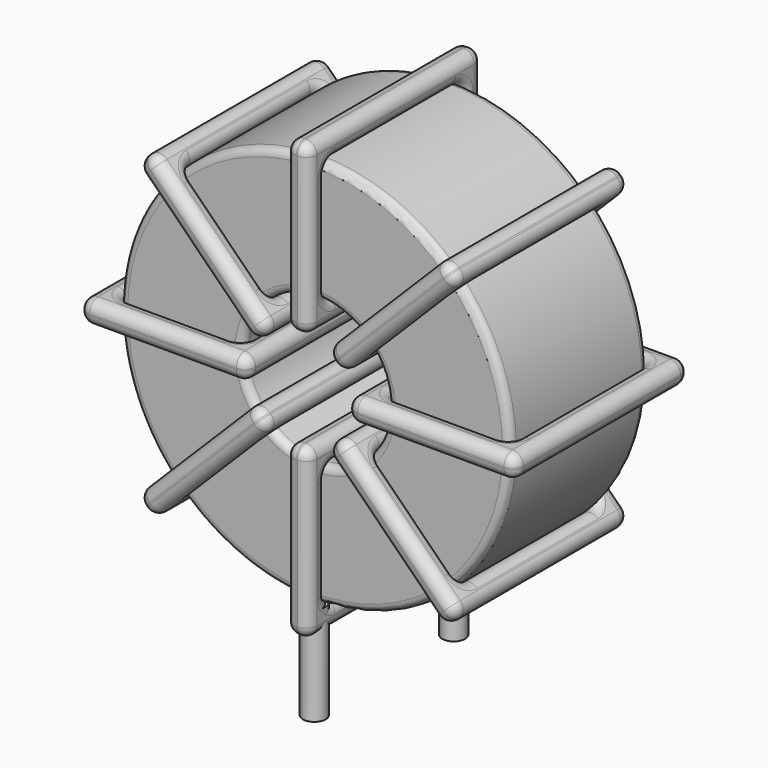
from build123d import *

# Parameters (mm, degrees)
SKETCH001_R       = 0.75
PAD001_DEPTH      = 1.5
PAD001_DEPTH_BACK = 5
SKETCH_R          = 12.8
SKETCH_R_2        = 4.766667
PAD_DEPTH         = 5.65
FILLET_R          = 0.5
SKETCH003_W       = 11.033333
SKETCH003_H       = 14.3
SKETCH003_W_2     = 8.033333
SKETCH003_H_2     = 11.3
PAD002_DEPTH      = 0.75
FILLET001_R       = 0.705
SKETCH004_W       = 11.033333
SKETCH004_H       = 14.3
SKETCH004_W_2     = 8.033333
SKETCH004_H_2     = 11.3
PAD003_DEPTH      = 0.75
FILLET002_R       = 0.705
SKETCH005_W       = 11.033333
SKETCH005_H       = 14.3
SKETCH005_W_2     = 8.033333
SKETCH005_H_2     = 11.3
PAD004_DEPTH      = 0.75
FILLET003_R       = 0.705
SKETCH006_W       = 11.033333
SKETCH006_H       = 14.3
SKETCH006_W_2     = 8.033333
SKETCH006_H_2     = 11.3
PAD005_DEPTH      = 0.75
FILLET004_R       = 0.705


with BuildPart() as pad001:
    # Sketch001 → Pad001 (new body, two sides)
    with BuildSketch(Plane.XY.offset(2)) as pad001_sk:
        Circle(SKETCH001_R)
        with Locations((0, -11.43)):
            Circle(SKETCH001_R)
    extrude(amount=PAD001_DEPTH)
    extrude(pad001_sk.sketch, amount=-PAD001_DEPTH_BACK)


with BuildPart() as fillet_body:
    # Sketch → Pad (new body, symmetric)
    with BuildSketch(Plane.XZ.offset(5.715)):
        with Locations((0, 16.3)):
            Circle(SKETCH_R)
        with Locations((0, 16.3)):
            Circle(SKETCH_R_2, mode=Mode.SUBTRACT)
    extrude(amount=PAD_DEPTH, both=True)

    # Fillet
    fillet_edges = [fillet_body.edges().sort_by_distance(p)[0] for p in [
        (-4.766667, -11.365, 16.3),
        (-12.8, -11.365, 16.3),
        (-12.8, -0.065, 16.3),
    ]]
    fillet(fillet_edges, radius=FILLET_R)


with BuildPart() as fillet001:
    # Sketch003 → Pad002 (new body, symmetric)
    with BuildSketch(Plane(origin=(0, 1.435, 16.3), x_dir=(1, 0, 0), z_dir=(0, 0, -1))):
        with Locations((-8.783333, 7.15)):
            Rectangle(SKETCH003_W, SKETCH003_H)
        with Locations((-8.783333, 7.15)):
            Rectangle(SKETCH003_W_2, SKETCH003_H_2, mode=Mode.SUBTRACT)
        with Locations((8.783333, 7.15)):
            Rectangle(SKETCH003_W, SKETCH003_H)
        with Locations((8.783333, 7.15)):
            Rectangle(SKETCH003_W_2, SKETCH003_H_2, mode=Mode.SUBTRACT)
    extrude(amount=PAD002_DEPTH, both=True)

    # Fillet001
    fillet001_edges = [fillet001.edges().sort_by_distance(p)[0] for p in [
        (-4.766667, -11.365, 16.3),
        (-4.766667, -0.065, 16.3),
        (-4.766667, -5.715, 17.05),
        (-4.766667, -5.715, 15.55),
        (-14.3, -12.865, 16.3),
        (-3.266667, -12.865, 16.3),
        (-8.783333, -12.865, 17.05),
        (-8.783333, -12.865, 15.55),
        (-3.266667, 1.435, 16.3),
        (-3.266667, -5.715, 17.05),
        (-3.266667, -5.715, 15.55),
        (4.766667, -11.365, 16.3),
        (12.8, -11.365, 16.3),
        (8.783333, -11.365, 17.05),
        (8.783333, -11.365, 15.55),
        (12.8, -0.065, 16.3),
        (12.8, -5.715, 17.05),
        (12.8, -5.715, 15.55),
        (3.266667, -12.865, 16.3),
        (14.3, -12.865, 16.3),
        (8.783333, -12.865, 17.05),
        (8.783333, -12.865, 15.55),
        (14.3, 1.435, 16.3),
        (14.3, -5.715, 17.05),
        (14.3, -5.715, 15.55),
        (-12.8, -11.365, 16.3),
        (-8.783333, -11.365, 17.05),
        (-8.783333, -11.365, 15.55),
        (4.766667, -0.065, 16.3),
        (4.766667, -5.715, 17.05),
        (4.766667, -5.715, 15.55),
        (8.783333, -0.065, 17.05),
        (8.783333, -0.065, 15.55),
        (3.266667, 1.435, 16.3),
        (8.783333, 1.435, 17.05),
        (8.783333, 1.435, 15.55),
        (3.266667, -5.715, 17.05),
        (3.266667, -5.715, 15.55),
        (-14.3, 1.435, 16.3),
        (-8.783333, 1.435, 17.05),
        (-8.783333, 1.435, 15.55),
        (-14.3, -5.715, 17.05),
        (-14.3, -5.715, 15.55),
        (-12.8, -0.065, 16.3),
        (-12.8, -5.715, 17.05),
        (-12.8, -5.715, 15.55),
        (-8.783333, -0.065, 17.05),
        (-8.783333, -0.065, 15.55),
    ]]
    fillet(fillet001_edges, radius=FILLET001_R)


with BuildPart() as fillet002:
    # Sketch004 → Pad003 (new body, symmetric)
    with BuildSketch(Plane(origin=(0, 1.435, 16.3), x_dir=(0.707108, 0, 0.707106), z_dir=(0.707106, 0, -0.707108))):
        with Locations((-8.783333, 7.15)):
            Rectangle(SKETCH004_W, SKETCH004_H)
        with Locations((-8.783333, 7.15)):
            Rectangle(SKETCH004_W_2, SKETCH004_H_2, mode=Mode.SUBTRACT)
        with Locations((8.783333, 7.15)):
            Rectangle(SKETCH004_W, SKETCH004_H)
        with Locations((8.783333, 7.15)):
            Rectangle(SKETCH004_W_2, SKETCH004_H_2, mode=Mode.SUBTRACT)
    extrude(amount=PAD003_DEPTH, both=True)

    # Fillet002
    fillet002_edges = [fillet002.edges().sort_by_distance(p)[0] for p in [
        (-9.050977, -11.365, 7.249044),
        (-3.370546, -0.065, 12.929462),
        (-6.741091, -0.065, 10.619583),
        (-5.680432, -0.065, 9.558922),
        (-10.111639, -12.865, 6.188385),
        (-2.309885, -12.865, 13.990121),
        (-6.741091, -12.865, 10.619583),
        (-5.680432, -12.865, 9.558922),
        (-2.309885, 1.435, 13.990121),
        (-2.840214, -5.715, 14.520451),
        (-1.779555, -5.715, 13.45979),
        (3.370546, -11.365, 19.670538),
        (9.050977, -11.365, 25.350956),
        (5.680432, -11.365, 23.041078),
        (6.741091, -11.365, 21.980417),
        (9.050977, -0.065, 25.350956),
        (8.520648, -5.715, 25.881287),
        (9.581307, -5.715, 24.820626),
        (2.309885, 1.435, 18.609879),
        (2.309885, -12.865, 18.609879),
        (1.779555, -5.715, 19.14021),
        (2.840214, -5.715, 18.079549),
        (10.111639, 1.435, 26.411615),
        (5.680432, 1.435, 23.041078),
        (6.741091, 1.435, 21.980417),
        (-9.050977, -0.065, 7.249044),
        (-9.581307, -5.715, 7.779374),
        (-8.520648, -5.715, 6.718713),
        (3.370546, -0.065, 19.670538),
        (2.840217, -5.715, 20.200869),
        (3.900876, -5.715, 19.140208),
        (5.680432, -0.065, 23.041078),
        (6.741091, -0.065, 21.980417),
        (10.111639, -12.865, 26.411615),
        (9.581309, -5.715, 26.941946),
        (10.641968, -5.715, 25.881285),
        (5.680432, -12.865, 23.041078),
        (6.741091, -12.865, 21.980417),
        (-10.111639, 1.435, 6.188385),
        (-6.741091, 1.435, 10.619583),
        (-5.680432, 1.435, 9.558922),
        (-10.641968, -5.715, 6.718715),
        (-9.581309, -5.715, 5.658054),
        (-3.370546, -11.365, 12.929462),
        (-6.741091, -11.365, 10.619583),
        (-5.680432, -11.365, 9.558922),
        (-3.900876, -5.715, 13.459792),
        (-2.840217, -5.715, 12.399131),
    ]]
    fillet(fillet002_edges, radius=FILLET002_R)


with BuildPart() as fillet003:
    # Sketch005 → Pad004 (new body, symmetric)
    with BuildSketch(Plane(origin=(0, 1.435, 16.3), x_dir=(0.707108, 0, -0.707106), z_dir=(-0.707106, 0, -0.707108))):
        with Locations((-8.783333, 7.15)):
            Rectangle(SKETCH005_W, SKETCH005_H)
        with Locations((-8.783333, 7.15)):
            Rectangle(SKETCH005_W_2, SKETCH005_H_2, mode=Mode.SUBTRACT)
        with Locations((8.783333, 7.15)):
            Rectangle(SKETCH005_W, SKETCH005_H)
        with Locations((8.783333, 7.15)):
            Rectangle(SKETCH005_W_2, SKETCH005_H_2, mode=Mode.SUBTRACT)
    extrude(amount=PAD004_DEPTH, both=True)

    # Fillet003
    fillet003_edges = [fillet003.edges().sort_by_distance(p)[0] for p in [
        (-3.370546, -11.365, 19.670538),
        (-3.370546, -0.065, 19.670538),
        (-2.840217, -5.715, 20.200869),
        (-3.900876, -5.715, 19.140208),
        (-10.111639, -12.865, 26.411615),
        (-2.309885, -12.865, 18.609879),
        (-5.680432, -12.865, 23.041078),
        (-6.741091, -12.865, 21.980417),
        (-2.309885, 1.435, 18.609879),
        (-1.779555, -5.715, 19.14021),
        (-2.840214, -5.715, 18.079549),
        (3.370546, -11.365, 12.929462),
        (9.050977, -11.365, 7.249044),
        (6.741091, -11.365, 10.619583),
        (5.680432, -11.365, 9.558922),
        (9.050977, -0.065, 7.249044),
        (9.581307, -5.715, 7.779374),
        (8.520648, -5.715, 6.718713),
        (2.309885, -12.865, 13.990121),
        (10.111639, -12.865, 6.188385),
        (6.741091, -12.865, 10.619583),
        (5.680432, -12.865, 9.558922),
        (10.111639, 1.435, 6.188385),
        (10.641968, -5.715, 6.718715),
        (9.581309, -5.715, 5.658054),
        (-9.050977, -11.365, 25.350956),
        (-5.680432, -11.365, 23.041078),
        (-6.741091, -11.365, 21.980417),
        (3.370546, -0.065, 12.929462),
        (3.900876, -5.715, 13.459792),
        (2.840217, -5.715, 12.399131),
        (6.741091, -0.065, 10.619583),
        (5.680432, -0.065, 9.558922),
        (2.309885, 1.435, 13.990121),
        (6.741091, 1.435, 10.619583),
        (5.680432, 1.435, 9.558922),
        (2.840214, -5.715, 14.520451),
        (1.779555, -5.715, 13.45979),
        (-10.111639, 1.435, 26.411615),
        (-5.680432, 1.435, 23.041078),
        (-6.741091, 1.435, 21.980417),
        (-9.581309, -5.715, 26.941946),
        (-10.641968, -5.715, 25.881285),
        (-9.050977, -0.065, 25.350956),
        (-8.520648, -5.715, 25.881287),
        (-9.581307, -5.715, 24.820626),
        (-5.680432, -0.065, 23.041078),
        (-6.741091, -0.065, 21.980417),
    ]]
    fillet(fillet003_edges, radius=FILLET003_R)


with BuildPart() as fillet004:
    # Sketch006 → Pad005 (new body, symmetric)
    with BuildSketch(Plane(origin=(0, 1.435, 16.3), x_dir=(0, 0, 1), z_dir=(1, 0, 0))):
        with Locations((-8.783333, 7.15)):
            Rectangle(SKETCH006_W, SKETCH006_H)
        with Locations((-8.783333, 7.15)):
            Rectangle(SKETCH006_W_2, SKETCH006_H_2, mode=Mode.SUBTRACT)
        with Locations((8.783333, 7.15)):
            Rectangle(SKETCH006_W, SKETCH006_H)
        with Locations((8.783333, 7.15)):
            Rectangle(SKETCH006_W_2, SKETCH006_H_2, mode=Mode.SUBTRACT)
    extrude(amount=PAD005_DEPTH, both=True)

    # Fillet004
    fillet004_edges = [fillet004.edges().sort_by_distance(p)[0] for p in [
        (0, -11.365, 11.533333),
        (0, -0.065, 11.533333),
        (-0.75, -5.715, 11.533333),
        (0.75, -5.715, 11.533333),
        (0, -12.865, 2),
        (0, -12.865, 13.033333),
        (-0.75, -12.865, 7.516667),
        (0.75, -12.865, 7.516667),
        (0, 1.435, 13.033333),
        (-0.75, -5.715, 13.033333),
        (0.75, -5.715, 13.033333),
        (0, -11.365, 21.066667),
        (0, -11.365, 29.1),
        (-0.75, -11.365, 25.083333),
        (0.75, -11.365, 25.083333),
        (0, -0.065, 29.1),
        (-0.75, -5.715, 29.1),
        (0.75, -5.715, 29.1),
        (0, -12.865, 19.566667),
        (0, -12.865, 30.6),
        (-0.75, -12.865, 25.083333),
        (0.75, -12.865, 25.083333),
        (0, 1.435, 30.6),
        (-0.75, -5.715, 30.6),
        (0.75, -5.715, 30.6),
        (0, -11.365, 3.5),
        (-0.75, -11.365, 7.516667),
        (0.75, -11.365, 7.516667),
        (0, -0.065, 21.066667),
        (-0.75, -5.715, 21.066667),
        (0.75, -5.715, 21.066667),
        (-0.75, -0.065, 25.083333),
        (0.75, -0.065, 25.083333),
        (0, 1.435, 19.566667),
        (-0.75, 1.435, 25.083333),
        (0.75, 1.435, 25.083333),
        (-0.75, -5.715, 19.566667),
        (0.75, -5.715, 19.566667),
        (0, 1.435, 2),
        (-0.75, 1.435, 7.516667),
        (0.75, 1.435, 7.516667),
        (-0.75, -5.715, 2),
        (0.75, -5.715, 2),
        (0, -0.065, 3.5),
        (-0.75, -5.715, 3.5),
        (0.75, -5.715, 3.5),
        (-0.75, -0.065, 7.516667),
        (0.75, -0.065, 7.516667),
    ]]
    fillet(fillet004_edges, radius=FILLET004_R)


solid = Compound([pad001.part, fillet_body.part, fillet001.part, fillet002.part, fillet003.part, fillet004.part])
